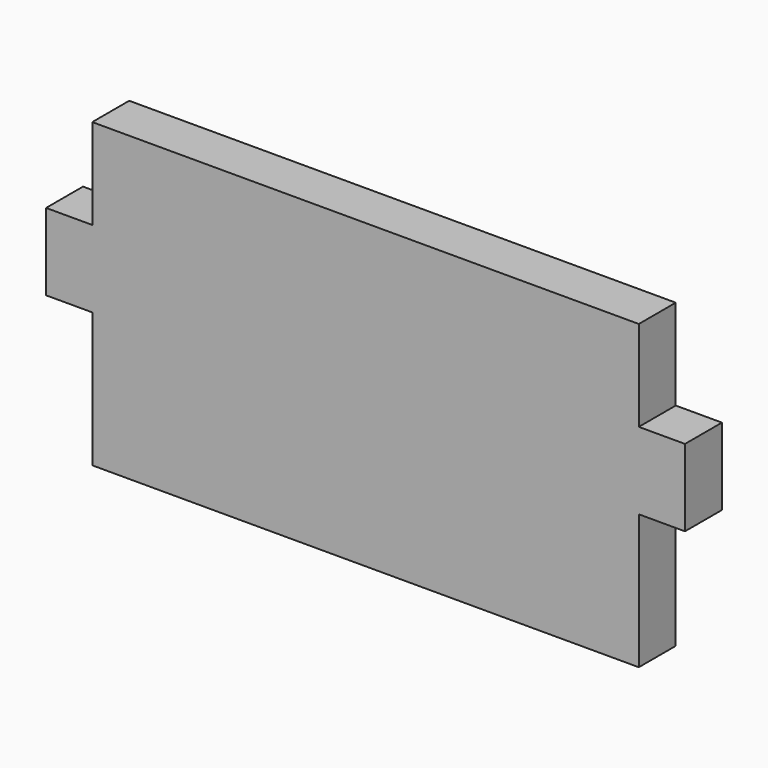
from build123d import *

# Parameters (mm, degrees)
F0_W     = 142.05
F0_H     = 90
F1_DEPTH = 12
F2_W     = 24
F2_H     = 20
F3_DEPTH = 12
F4_DEPTH = 10.02627
F5_W     = 142.05
F5_H     = 1.43163
F6_DEPTH = 25


with BuildPart() as f1:
    # F0 (on Front) → F1 (new body)
    with BuildSketch(Plane.XZ):
        with Locations((71.025, 45)):
            Rectangle(F0_W, F0_H)
    extrude(amount=F1_DEPTH)

    # F2 (on face) → F3 (join)
    with BuildSketch(Plane.XZ.offset(12)):
        with Locations((0, 45)):
            Rectangle(F2_W, F2_H)
        with Locations((142.05, 45)):
            Rectangle(F2_W, F2_H)
    extrude(amount=-F3_DEPTH)

    # F4 (cut): a face of the model
    f4_faces = [f1.faces().sort_by_distance(p)[0] for p in [
        (71.025, -6, 90),
    ]]
    extrude(f4_faces, amount=-F4_DEPTH, mode=Mode.SUBTRACT)

    # F5 (on face) → F6 (cut)
    with BuildSketch(Plane.XZ.offset(12)):
        with Locations((71.025, 79.257915)):
            Rectangle(F5_W, F5_H)
    extrude(amount=-F6_DEPTH, mode=Mode.SUBTRACT)


solid = f1.part
